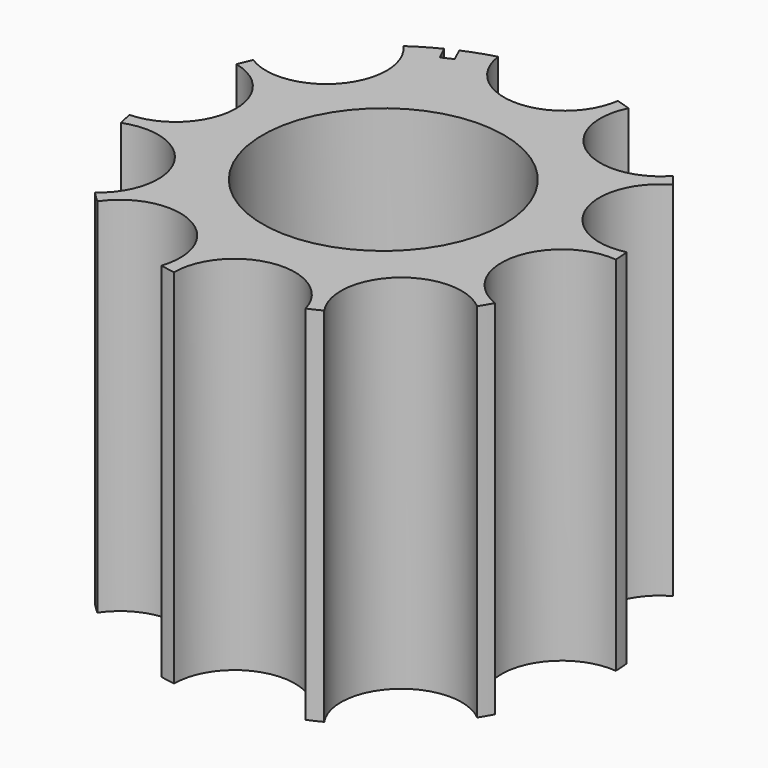
from build123d import *

# Parameters (mm, degrees)
F0_R     = 1.6
F1_DEPTH = 12
F5_DEPTH = 4
F6_R     = 4
F7_DEPTH = 25


with BuildPart() as f1:
    # F0 (on Top) → F1 (new body)
    with BuildSketch(Plane.XY):
        with BuildLine():
            ThreePointArc((6.5812443787, -3.5968350571), (5.3517467882, -1.2683872891), (7.4954714157, 0.260592127))
            ThreePointArc((7.4954714157, 0.260592127), (7.4827308748, 0.5086635974), (7.4617823733, 0.7561771044))
            ThreePointArc((7.4617823733, 0.7561771044), (5.130860376, 1.9809774864), (6.0339352218, 4.4543939811))
            ThreePointArc((6.0339352218, 4.4543939811), (5.8831174869, 4.6517661845), (5.7258464401, 4.8440357704))
            ThreePointArc((5.7258464401, 4.8440357704), (3.1108378152, 4.5357125226), (2.456599692, 7.0862626224))
            ThreePointArc((2.456599692, 7.0862626224), (2.2205890006, 7.1637269972), (1.9821424996, 7.2333333333))
            ThreePointArc((1.9821424996, 7.2333333333), (0, 5.5), (-1.9821424996, 7.2333333333))
            ThreePointArc((-1.9821424996, 7.2333333333), (-2.490988884, 7.0742472659), (-2.9872482232, 6.8794148045))
            Line((-2.9872482232, 6.8794148045), (-2.7759390923, 6.426260911))
            Line((-2.7759390923, 6.426260911), (-3.1384622071, 6.2572136063))
            Line((-3.1384622071, 6.2572136063), (-3.349771338, 6.7103674999))
            ThreePointArc((-3.349771338, 6.7103674999), (-3.8180110168, 6.4554466829), (-4.2669581658, 6.1679062907))
            ThreePointArc((-4.2669581658, 6.1679062907), (-4.2132444372, 3.5353318533), (-6.8151514446, 3.1310877961))
            ThreePointArc((-6.8151514446, 3.1310877961), (-6.915100354, 2.9036850887), (-7.0074639483, 2.6730972696))
            ThreePointArc((-7.0074639483, 2.6730972696), (-5.4741653769, 0.5324597889), (-7.3912498308, -1.2725666735))
            ThreePointArc((-7.3912498308, -1.2725666735), (-7.3450546632, -1.5166317925), (-7.2908025549, -1.7590332871))
            ThreePointArc((-7.2908025549, -1.7590332871), (-4.8155702722, -2.6571192961), (-5.3756065246, -5.2299956494))
            ThreePointArc((-5.3756065246, -5.2299956494), (-5.1994656152, -5.4051417481), (-5.0176213056, -5.5743588361))
            ThreePointArc((-5.0176213056, -5.5743588361), (-2.4683954911, -4.9149795218), (-1.4750068347, -7.3535266939))
            ThreePointArc((-1.4750068347, -7.3535266939), (-1.2306839919, -7.3983387941), (-0.9850111866, -7.4350355051))
            ThreePointArc((-0.9850111866, -7.4350355051), (0.7443221486, -5.4494022185), (2.9428039897, -6.8985436636))
            ThreePointArc((2.9428039897, -6.8985436636), (3.1696369631, -6.7973084028), (3.3929930968, -6.6886170353))
            ThreePointArc((3.3929930968, -6.6886170353), (3.6960432331, -4.0729920721), (6.3287206193, -4.0245863543))
            ThreePointArc((6.3287206193, -4.0245863543), (6.4585247429, -3.8128018759), (6.5812443787, -3.5968350571))
        make_face()
        Circle(F0_R, mode=Mode.SUBTRACT)
    extrude(amount=F1_DEPTH)

    # F4 (on offset) → F5 (cut)
    with BuildSketch(Plane(origin=(0, 0, 1.5), x_dir=(1, 0, 0), z_dir=(0, 0, -1))):
        Polygon((3.4640966662, -0.0058555579), (1.737119395, 2.9970679351), (-1.7269772711, 3.002923493), (-3.4640966662, 0.0058555579), (-1.737119395, -2.9970679351), (1.7269772711, -3.002923493), align=None)
    extrude(amount=-F5_DEPTH, mode=Mode.SUBTRACT)

    # F6 (on offset) → F7 (cut)
    with BuildSketch(Plane(origin=(0, 0, 5.5), x_dir=(1, 0, 0), z_dir=(0, 0, -1))):
        Circle(F6_R)
    extrude(amount=-F7_DEPTH, mode=Mode.SUBTRACT)


solid = f1.part
